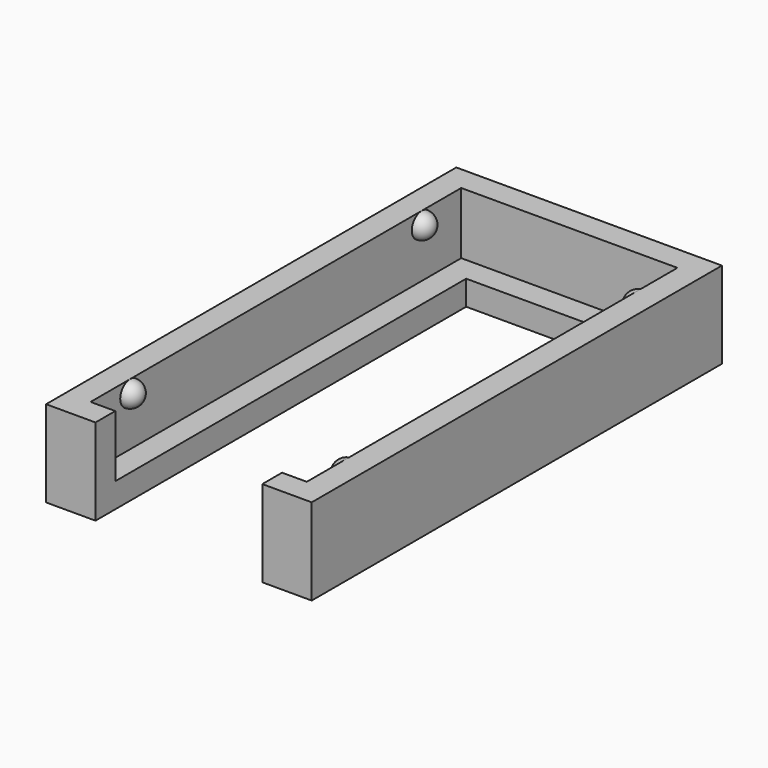
from build123d import *

# Parameters (mm, degrees)
SKETCH080_W         = 21.5
SKETCH080_H         = 41.5
PAD036_DEPTH        = 7
SKETCH081_W         = 17.5
SKETCH081_H         = 37.5
POCKET027_DEPTH     = 5
SKETCH077_W         = 13.5
SKETCH077_H         = 33.5
POCKET028_DEPTH     = 2.001
SKETCH078_W         = 13.5
SKETCH078_H         = 4
POCKET026_DEPTH     = 7.001
REVOLUTION010_ANGLE = -180
REVOLUTION011_ANGLE = -180


with BuildPart() as part:
    # Sketch080 → Pad036 (new body)
    with BuildSketch(Plane.XY):
        with Locations((10.75, 20.75)):
            Rectangle(SKETCH080_W, SKETCH080_H)
    extrude(amount=PAD036_DEPTH)

    # Sketch081 (on Face6 of Pad036) → Pocket027 (cut)
    with BuildSketch(Plane.XY.offset(7)):
        with Locations((10.75, 20.75)):
            Rectangle(SKETCH081_W, SKETCH081_H)
    extrude(amount=-POCKET027_DEPTH, mode=Mode.SUBTRACT)

    # Sketch077 (on Face11 of Pocket027) → Pocket028 (cut, through all)
    with BuildSketch(Plane.XY.offset(2)):
        with Locations((10.75, 20.75)):
            Rectangle(SKETCH077_W, SKETCH077_H)
    extrude(amount=-POCKET028_DEPTH, mode=Mode.SUBTRACT)

    # Sketch078 (on Face5 of Pocket028) → Pocket026 (cut, through all)
    with BuildSketch(Plane.XY.offset(7)):
        with Locations((10.75, 2)):
            Rectangle(SKETCH078_W, SKETCH078_H)
    extrude(amount=-POCKET026_DEPTH, mode=Mode.SUBTRACT)

    # Sketch082 (on Face18 of Pocket026) → Revolution010 (revolve)
    with BuildSketch(Plane.YZ.offset(2)):
        with BuildLine():
            ThreePointArc((7, 6), (6, 7), (5, 6))
            Line((5, 6), (7, 6))
        make_face()
        with BuildLine():
            ThreePointArc((36.5, 6), (35.5, 7), (34.5, 6))
            Line((34.5, 6), (36.5, 6))
        make_face()
    revolve(axis=Axis((2, 34.5, 6), (0, -1, 0)), revolution_arc=REVOLUTION010_ANGLE)

    # Sketch083 (on Face17 of Revolution010) → Revolution011 (revolve)
    with BuildSketch(Plane(origin=(19.5, 0, 0), x_dir=(0, -1, 0), z_dir=(-1, 0, 0))):
        with BuildLine():
            ThreePointArc((-34.5, 6), (-35.5, 7), (-36.5, 6))
            Line((-36.5, 6), (-34.5, 6))
        make_face()
        with BuildLine():
            ThreePointArc((-5, 6), (-6, 7), (-7, 6))
            Line((-7, 6), (-5, 6))
        make_face()
    revolve(axis=Axis((19.5, 7, 6), (0, 1, 0)), revolution_arc=REVOLUTION011_ANGLE)


solid = part.part
